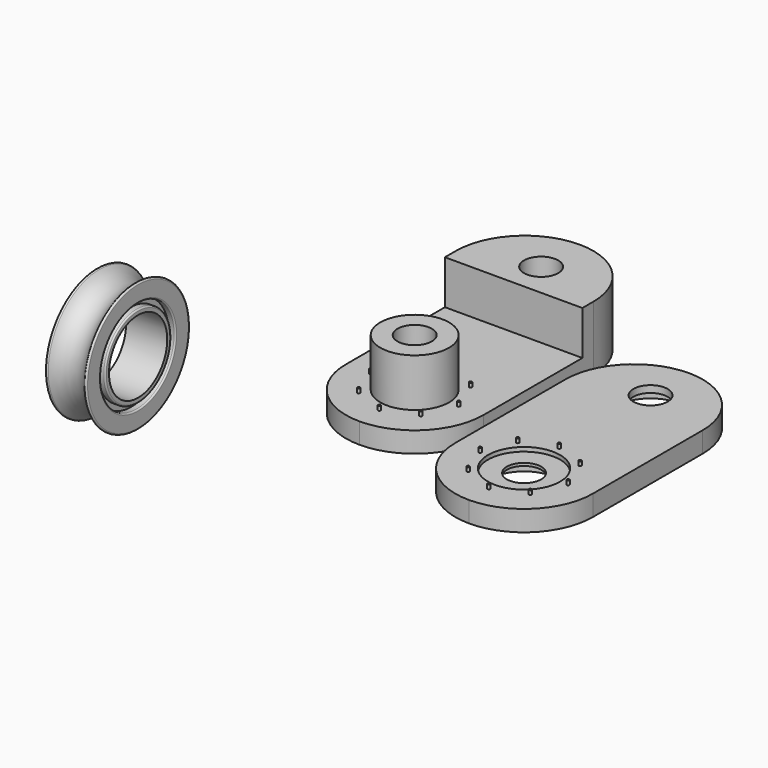
from build123d import *

# Parameters (mm, degrees)
F0_R            = 0.254
F0_R_2          = 6.35
F1_DEPTH        = 3.81
F0_R_3          = 3.175
F2_DEPTH        = 11.938
F3_DEPTH        = 4.572
F4_W            = 5.08
F4_H            = 1.016
F6_R            = 0.254
F6_R_2          = 6.6675
F6_R_3          = 3.175
F7_DEPTH        = 3.81
F8_DEPTH        = 4.572
F9_DEPTH        = 12.7
F10_DEPTH       = 3.048
F11_D           = 6.35
F11_CBORE_D     = 12.7
F11_CBORE_DEPTH = 2.54


with BuildPart() as f1:
    # F0 (on Top) → F1 (new body)
    with BuildSketch(Plane.XY):
        with BuildLine():
            ThreePointArc((0, -25.4), (8.9802561211, -21.6802561211), (12.7, -12.7))
            Line((12.7, -12.7), (12.7, 10.16))
            Line((12.7, 10.16), (-3.01e-08, 10.16))
            Line((-3.01e-08, 10.16), (-12.7, 10.16))
            Line((-12.7, 10.16), (-12.7, -12.7))
            ThreePointArc((-12.7, -12.7), (-8.9802561211, -21.6802561211), (0, -25.4))
        make_face()
        with Locations((-8.128, -12.7)):
            Circle(F0_R, mode=Mode.SUBTRACT)
        with Locations((0, -20.828)):
            Circle(F0_R, mode=Mode.SUBTRACT)
        with Locations((-5.7473639175, -18.4473639175)):
            Circle(F0_R, mode=Mode.SUBTRACT)
        with Locations((0, -12.7)):
            Circle(F0_R_2, mode=Mode.SUBTRACT)
        with Locations((-5.7473639175, -6.9526360825)):
            Circle(F0_R, mode=Mode.SUBTRACT)
        with Locations((0, -4.572)):
            Circle(F0_R, mode=Mode.SUBTRACT)
        with Locations((5.7473639175, -18.4473639175)):
            Circle(F0_R, mode=Mode.SUBTRACT)
        with Locations((8.128, -12.7)):
            Circle(F0_R, mode=Mode.SUBTRACT)
        with Locations((5.7473639175, -6.9526360825)):
            Circle(F0_R, mode=Mode.SUBTRACT)
    extrude(amount=F1_DEPTH)

    # F0 (on Top) → F2 (join)
    with BuildSketch(Plane.XY):
        with BuildLine():
            Line((-3.01e-08, 10.16), (12.7, 10.16))
            Line((12.7, 10.16), (12.7, 12.7))
            ThreePointArc((12.7, 12.7), (8.9802561211, 21.6802561211), (0, 25.4))
            ThreePointArc((0, 25.4), (-8.9802561211, 21.6802561211), (-12.7, 12.7))
            Line((-12.7, 12.7), (-12.7, 10.16))
            Line((-12.7, 10.16), (-3.01e-08, 10.16))
        make_face()
        with BuildLine():
            ThreePointArc((6.35, 16.51), (4.4901280499, 12.0198719288), (-3.01e-08, 10.16))
            ThreePointArc((-3.01e-08, 10.16), (-4.4901280499, 21.0001280712), (6.35, 16.51))
        make_face(mode=Mode.SUBTRACT)
        with BuildLine():
            ThreePointArc((6.35, 16.51), (-4.4901280499, 21.0001280712), (-3.01e-08, 10.16))
            ThreePointArc((-3.01e-08, 10.16), (4.4901280499, 12.0198719288), (6.35, 16.51))
        make_face()
        with Locations((0, 16.51)):
            Circle(F0_R_3, mode=Mode.SUBTRACT)
    extrude(amount=F2_DEPTH)

    # F0 (on Top) → F3 (join)
    with BuildSketch(Plane.XY):
        with Locations((-8.128, -12.7)):
            Circle(F0_R)
        with Locations((-5.7473639175, -18.4473639175)):
            Circle(F0_R)
        with Locations((0, -20.828)):
            Circle(F0_R)
        with Locations((5.7473639175, -18.4473639175)):
            Circle(F0_R)
        with Locations((8.128, -12.7)):
            Circle(F0_R)
        with Locations((5.7473639175, -6.9526360825)):
            Circle(F0_R)
        with Locations((0, -4.572)):
            Circle(F0_R)
        with Locations((-5.7473639175, -6.9526360825)):
            Circle(F0_R)
    extrude(amount=F3_DEPTH)

    # F0 (on Top) → F9 (join)
    with BuildSketch(Plane.XY):
        with Locations((0, -12.7)):
            Circle(F0_R_2)
        with Locations((0, -12.7)):
            Circle(F0_R_3, mode=Mode.SUBTRACT)
    extrude(amount=F9_DEPTH)


with BuildPart() as f5:
    # F4 (on Top) → F5 (revolve)
    with BuildSketch(Plane.XY):
        with BuildLine():
            Line((-42.2393822122, -14.8932660019), (-42.2393822122, -12.1185411471))
            ThreePointArc((-42.2393822122, -12.1185411471), (-42.4179329694, -11.8760057646), (-42.7025586828, -11.9744536592))
            ThreePointArc((-42.7025586828, -11.9744536592), (-46.0493822122, -13.7330538538), (-49.3962057416, -11.9744536592))
            ThreePointArc((-49.3962057416, -11.9744536592), (-49.6808314549, -11.8760057646), (-49.8593822122, -12.1185411471))
            Line((-49.8593822122, -12.1185411471), (-49.8593822122, -14.8932660019))
            ThreePointArc((-49.8593822122, -14.8932660019), (-49.7849873346, -15.0728711244), (-49.6053822122, -15.1472660019))
            Line((-49.6053822122, -15.1472660019), (-48.5893822122, -15.1472660019))
            Line((-48.5893822122, -15.1472660019), (-43.5093822122, -15.1472660019))
            Line((-43.5093822122, -15.1472660019), (-42.4933822122, -15.1472660019))
            ThreePointArc((-42.4933822122, -15.1472660019), (-42.3137770897, -15.0728711244), (-42.2393822122, -14.8932660019))
        make_face()
        with Locations((-46.0493822122, -15.6552660019)):
            Rectangle(F4_W, F4_H)
        with BuildLine():
            Line((-42.4933822122, -16.1632660019), (-43.5093822122, -16.1632660019))
            Line((-43.5093822122, -16.1632660019), (-48.5893822122, -16.1632660019))
            Line((-48.5893822122, -16.1632660019), (-49.6053822122, -16.1632660019))
            ThreePointArc((-49.6053822122, -16.1632660019), (-49.7849873346, -16.2376608795), (-49.8593822122, -16.4172660019))
            Line((-49.8593822122, -16.4172660019), (-49.8593822122, -17.0522660019))
            Line((-49.8593822122, -17.0522660019), (-42.2393822122, -17.0522660019))
            Line((-42.2393822122, -17.0522660019), (-42.2393822122, -16.4172660019))
            ThreePointArc((-42.2393822122, -16.4172660019), (-42.3137770897, -16.2376608795), (-42.4933822122, -16.1632660019))
        make_face()
    revolve(axis=Axis((-46.0493822122, -23.7832660019, 0), (1, 0, 0)))


with BuildPart() as f7:
    # F6 (on face) → F7 (new body)
    with BuildSketch(Plane.XY.offset(11.938)):
        with BuildLine():
            ThreePointArc((41.993646807, -52.6262886033), (50.9739029281, -48.9065447244), (54.693646807, -39.9262886033))
            Line((54.693646807, -39.9262886033), (54.693646807, -14.5262886033))
            ThreePointArc((54.693646807, -14.5262886033), (50.9739029281, -5.5460324822), (41.993646807, -1.8262886033))
            ThreePointArc((41.993646807, -1.8262886033), (33.0133906859, -5.5460324822), (29.293646807, -14.5262886033))
            Line((29.293646807, -14.5262886033), (29.293646807, -39.9262886033))
            ThreePointArc((29.293646807, -39.9262886033), (33.0133906859, -48.9065447244), (41.993646807, -52.6262886033))
        make_face()
        with Locations((36.2464217321, -45.6737672395)):
            Circle(F6_R, mode=Mode.SUBTRACT)
        with Locations((33.8657856495, -39.9264033221)):
            Circle(F6_R, mode=Mode.SUBTRACT)
        with Locations((36.2464217321, -34.1790394046)):
            Circle(F6_R, mode=Mode.SUBTRACT)
        with Locations((41.9937856495, -48.0544033221)):
            Circle(F6_R, mode=Mode.SUBTRACT)
        with Locations((47.741149567, -45.6737672395)):
            Circle(F6_R, mode=Mode.SUBTRACT)
        with Locations((41.9937856495, -39.9264033221)):
            Circle(F6_R_2, mode=Mode.SUBTRACT)
        with Locations((50.1217856495, -39.9264033221)):
            Circle(F6_R, mode=Mode.SUBTRACT)
        with Locations((47.741149567, -34.1790394046)):
            Circle(F6_R, mode=Mode.SUBTRACT)
        with Locations((41.9937856495, -31.7984033221)):
            Circle(F6_R, mode=Mode.SUBTRACT)
        with Locations((41.993646807, -10.7162886033)):
            Circle(F6_R_3, mode=Mode.SUBTRACT)
        with BuildLine():
            ThreePointArc((41.993646807, -52.6262886033), (50.9739029281, -48.9065447244), (54.693646807, -39.9262886033))
            Line((54.693646807, -39.9262886033), (54.693646807, -14.5262886033))
            ThreePointArc((54.693646807, -14.5262886033), (50.9739029281, -5.5460324822), (41.993646807, -1.8262886033))
            ThreePointArc((41.993646807, -1.8262886033), (33.0133906859, -5.5460324822), (29.293646807, -14.5262886033))
            Line((29.293646807, -14.5262886033), (29.293646807, -39.9262886033))
            ThreePointArc((29.293646807, -39.9262886033), (33.0133906859, -48.9065447244), (41.993646807, -52.6262886033))
        make_face()
        with Locations((36.2464217321, -45.6737672395)):
            Circle(F6_R, mode=Mode.SUBTRACT)
        with Locations((33.8657856495, -39.9264033221)):
            Circle(F6_R, mode=Mode.SUBTRACT)
        with Locations((36.2464217321, -34.1790394046)):
            Circle(F6_R, mode=Mode.SUBTRACT)
        with Locations((41.9937856495, -48.0544033221)):
            Circle(F6_R, mode=Mode.SUBTRACT)
        with Locations((47.741149567, -45.6737672395)):
            Circle(F6_R, mode=Mode.SUBTRACT)
        with Locations((41.9937856495, -39.9264033221)):
            Circle(F6_R_2, mode=Mode.SUBTRACT)
        with Locations((50.1217856495, -39.9264033221)):
            Circle(F6_R, mode=Mode.SUBTRACT)
        with Locations((47.741149567, -34.1790394046)):
            Circle(F6_R, mode=Mode.SUBTRACT)
        with Locations((41.9937856495, -31.7984033221)):
            Circle(F6_R, mode=Mode.SUBTRACT)
        with Locations((41.993646807, -10.7162886033)):
            Circle(F6_R_3, mode=Mode.SUBTRACT)
        with Locations((41.993646807, -10.7162886033)):
            Circle(F6_R_3)
    extrude(amount=F7_DEPTH)

    # F6 (on face) → F8 (join)
    with BuildSketch(Plane.XY.offset(11.938)):
        with Locations((41.9937856495, -31.7984033221)):
            Circle(F6_R)
        with Locations((36.2464217321, -34.1790394046)):
            Circle(F6_R)
        with Locations((33.8657856495, -39.9264033221)):
            Circle(F6_R)
        with Locations((47.741149567, -34.1790394046)):
            Circle(F6_R)
        with Locations((50.1217856495, -39.9264033221)):
            Circle(F6_R)
        with Locations((47.741149567, -45.6737672395)):
            Circle(F6_R)
        with Locations((36.2464217321, -45.6737672395)):
            Circle(F6_R)
        with Locations((41.9937856495, -48.0544033221)):
            Circle(F6_R)
    extrude(amount=F8_DEPTH)

    # F6 (on face) → F10 (join)
    with BuildSketch(Plane.XY.offset(11.938)):
        with Locations((41.9937856495, -39.9264033221)):
            Circle(F6_R_2)
        with Locations((41.9937856495, -39.9264033221)):
            Circle(F6_R_3, mode=Mode.SUBTRACT)
        with Locations((41.9937856495, -39.9264033221)):
            Circle(F6_R_3)
    extrude(amount=F10_DEPTH)

    # F11 (through all)
    with Locations(Plane(origin=(0, 0, 11.938), x_dir=(1, 0, 0), z_dir=(0, 0, -1))):
        with Locations((41.993646807, 39.9262886033), (41.993646807, 10.7162886033)):
            CounterBoreHole(F11_D / 2, F11_CBORE_D / 2, F11_CBORE_DEPTH)


solid = Compound([f1.part, f5.part, f7.part])
